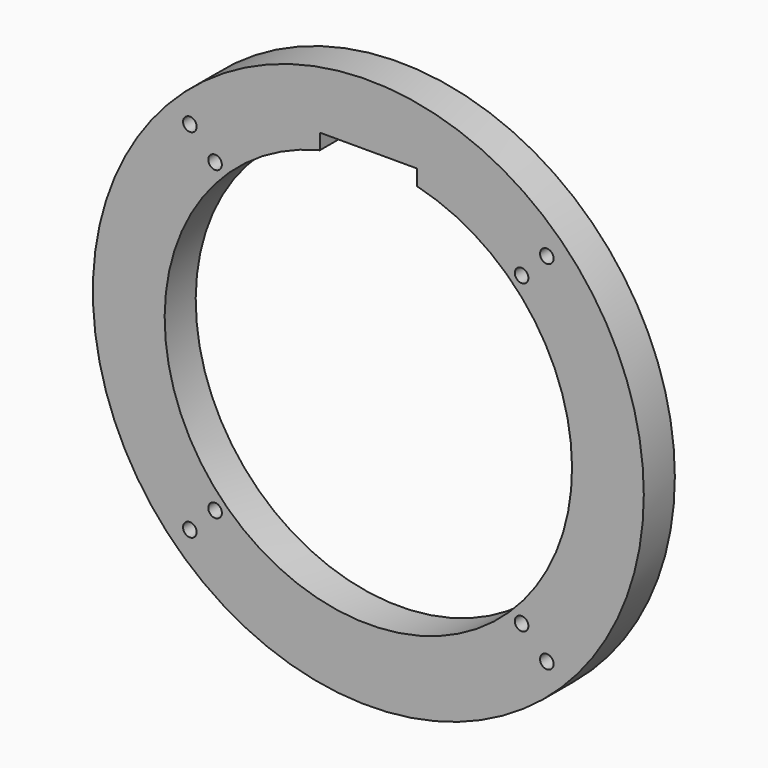
from build123d import *

# Parameters (mm, degrees)
F0_R     = 90.17
F0_R_2   = 66.675
F1_DEPTH = 12.7
F2_R     = 2.2225
F3_DEPTH = 12.701
F5_DEPTH = 12.701


with BuildPart() as f1:
    # F0 (on Front) → F1 (new body)
    with BuildSketch(Plane.XZ):
        Circle(F0_R)
        Circle(F0_R_2, mode=Mode.SUBTRACT)
    extrude(amount=F1_DEPTH)

    # F2 (on face) → F3 (cut, through all)
    with BuildSketch(Plane.XZ.offset(12.7)):
        with Locations((-58.42, 58.42)):
            Circle(F2_R)
        with Locations((-50.165, 50.165)):
            Circle(F2_R)
        with Locations((50.165, 50.165)):
            Circle(F2_R)
        with Locations((58.42, 58.42)):
            Circle(F2_R)
        with Locations((50.165, -50.165)):
            Circle(F2_R)
        with Locations((58.42, -58.42)):
            Circle(F2_R)
        with Locations((-58.42, -58.42)):
            Circle(F2_R)
        with Locations((-50.165, -50.165)):
            Circle(F2_R)
    extrude(amount=-F3_DEPTH, mode=Mode.SUBTRACT)

    # F4 (on face) → F5 (cut, through all)
    with BuildSketch(Plane.XZ.offset(12.7)):
        with BuildLine():
            Line((15.875, 69.85), (-15.875, 69.85))
            Line((-15.875, 69.85), (-15.875, 64.757548))
            ThreePointArc((-15.875, 64.757548), (0, 66.675), (15.875, 64.757548))
            Line((15.875, 64.757548), (15.875, 69.85))
        make_face()
    extrude(amount=-F5_DEPTH, mode=Mode.SUBTRACT)


solid = f1.part
